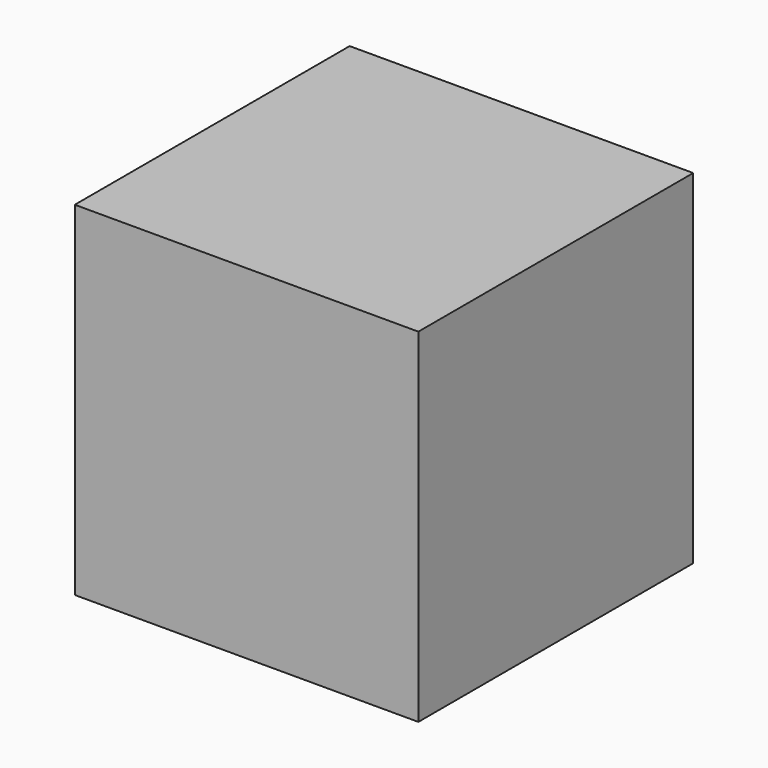
from build123d import *

# Parameters (mm, degrees)
BOX_W     = 200
BOX_H     = 200
BOX_DEPTH = 200


with BuildPart() as part:
    # Box → Box (new body)
    with BuildSketch(Plane(origin=(-100, -100, 0), x_dir=(1, 0, 0), z_dir=(0, 0, 1))):
        with Locations((100, 100)):
            Rectangle(BOX_W, BOX_H)
    extrude(amount=BOX_DEPTH)


solid = part.part
